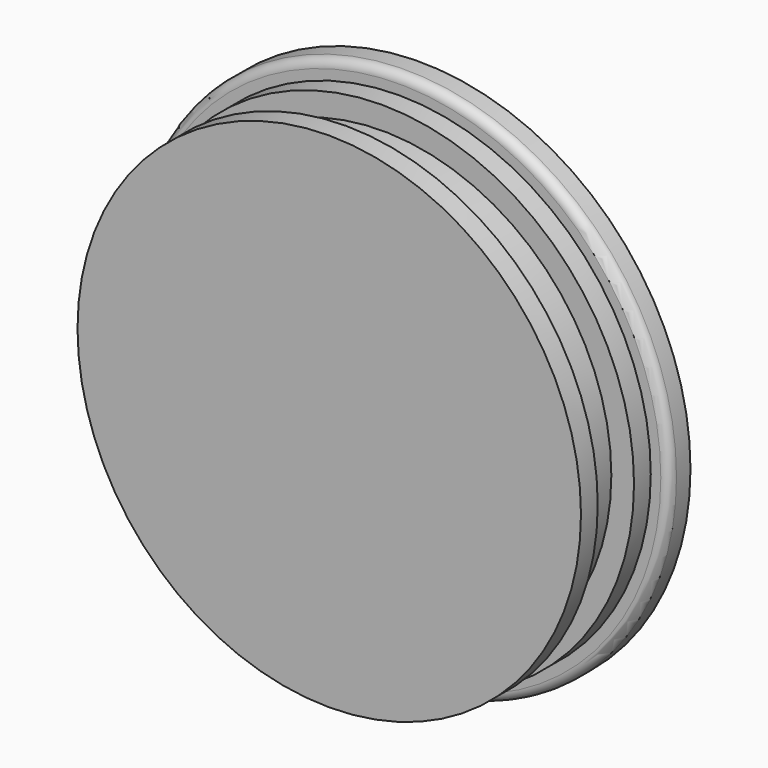
from build123d import *


with BuildPart() as f1:
    # F0 (on Top) → F1 (revolve)
    with BuildSketch(Plane.XY):
        with BuildLine():
            Line((0, 0), (28.85, 0))
            Line((28.85, 0), (28.85, 2.4))
            Line((28.85, 2.4), (26.25, 2.4))
            Line((26.25, 2.4), (26.25, 7.6))
            Line((26.25, 7.6), (28.85, 7.6))
            Line((28.85, 7.6), (28.85, 10))
            Line((28.85, 10), (30, 10))
            ThreePointArc((30, 10), (30.707107, 10.292893), (31, 11))
            Line((31, 11), (31, 13))
            ThreePointArc((31, 13), (15.584339, 15.42652), (0, 16.238288))
            Line((0, 16.238288), (0, 0))
        make_face()
    revolve(axis=Axis((0, 8.119144, 0), (0, -1, 0)))


solid = f1.part
